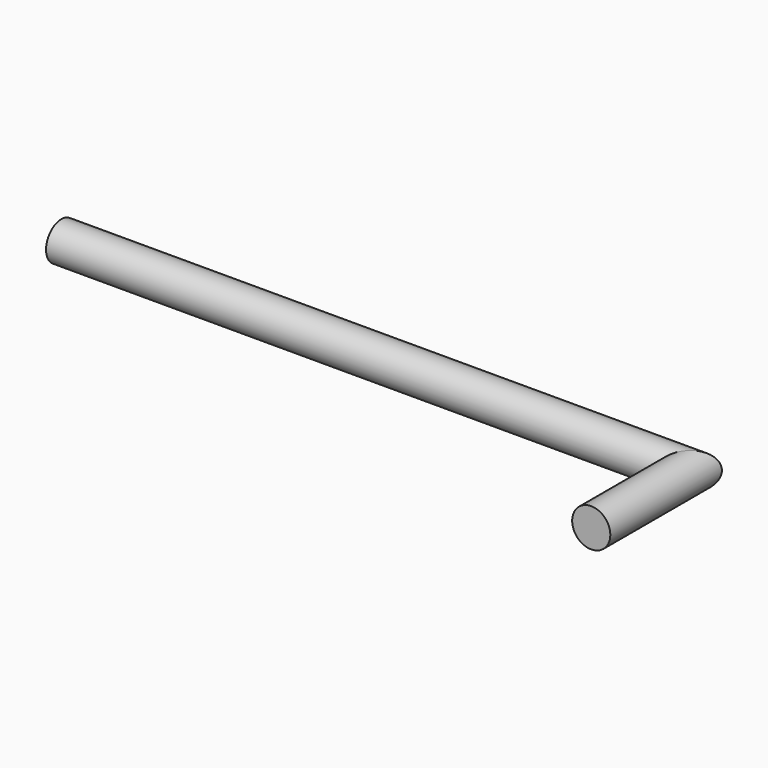
from build123d import *

# Parameters (mm, degrees)
F2_R = 2.375


with BuildPart() as f5:
    # F5: sweep along a path in F5_path
    with BuildLine(Plane(origin=(-39, 0, 0), x_dir=(0, 1, 0), z_dir=(0, 0, 1))) as f5_path:
        Line((0, 0), (0, -78))
        Line((0, -78), (-15, -78))
    # F2 (on plane+point) → F5 (sweep)
    with BuildSketch(Plane.YZ.offset(-39)):
        Circle(F2_R)
    sweep(path=f5_path.line, transition=Transition.RIGHT)


solid = f5.part
